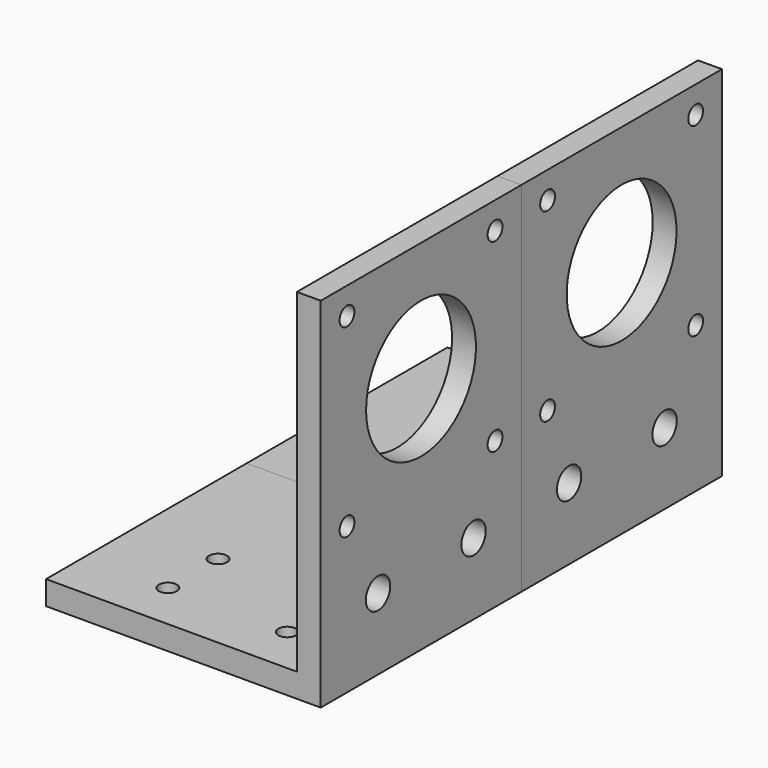
from build123d import *

# Parameters (mm, degrees)
F1_DEPTH = 42
F2_R     = 1.5
F3_DEPTH = 25
F4_R     = 2.55
F5_DEPTH = 4
F6_R     = 1.55
F6_R_2   = 11.5
F7_DEPTH = 4


with BuildPart() as f1:
    # F0 (on Front) → F1 (new body)
    with BuildSketch(Plane.XZ):
        Polygon((0, 4), (0, 0), (46, 0), (46, 25), (46, 60), (42, 60), (42, 23), (42, 4), align=None)
    extrude(amount=F1_DEPTH)

    # F2 (on face) → F3 (cut)
    with BuildSketch(Plane(origin=(0, 0, 0), x_dir=(1, 0, 0), z_dir=(0, 0, -1))):
        with Locations((14, 3.5)):
            Circle(F2_R)
        with Locations((34, 3.5)):
            Circle(F2_R)
        with Locations((14, 23.5)):
            Circle(F2_R)
        with Locations((34, 23.5)):
            Circle(F2_R)
        with Locations((34, 34)):
            Circle(F2_R)
        with Locations((14, 34)):
            Circle(F2_R)
    extrude(amount=-F3_DEPTH, mode=Mode.SUBTRACT)

    # F4 (on face) → F5 (cut, through all)
    with BuildSketch(Plane(origin=(42, 0, 0), x_dir=(0, -1, 0), z_dir=(-1, 0, 0))):
        with Locations((10, 12)):
            Circle(F4_R)
        with Locations((30, 12)):
            Circle(F4_R)
    extrude(amount=-F5_DEPTH, mode=Mode.SUBTRACT)

    # F6 (on face) → F7 (cut, through all)
    with BuildSketch(Plane(origin=(42, 0, 0), x_dir=(0, -1, 0), z_dir=(-1, 0, 0))):
        with Locations((5.5, 55.5)):
            Circle(F6_R)
        with Locations((36.5, 55.5)):
            Circle(F6_R)
        with Locations((5.5, 24.5)):
            Circle(F6_R)
        with Locations((36.5, 24.5)):
            Circle(F6_R)
        with Locations((21, 40)):
            Circle(F6_R_2)
    extrude(amount=-F7_DEPTH, mode=Mode.SUBTRACT)


with BuildPart() as f8_1:
    # F8: instance of F1
    add(f1.part.mirror(Plane.XZ))


solid = Compound([f1.part, f8_1.part])
